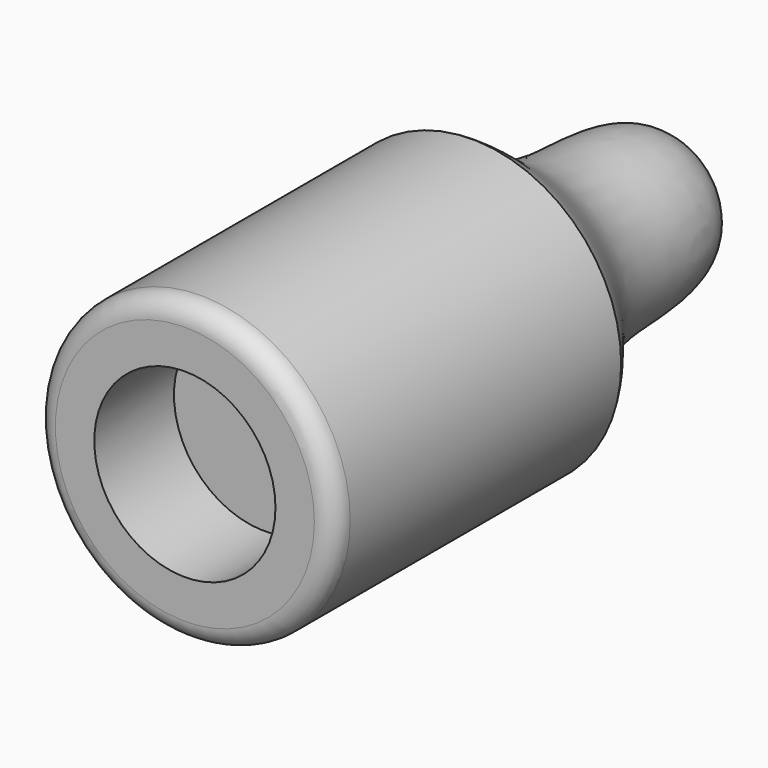
from build123d import *

# Parameters (mm, degrees)
F0_R     = 38.1
F1_DEPTH = 91.44
F2_R     = 23.1008347908
F3_DEPTH = 25.4
F4_R     = 5.08


with BuildPart() as f1:
    # F0 (on Front) → F1 (new body)
    with BuildSketch(Plane.XZ):
        Circle(F0_R)
    extrude(amount=F1_DEPTH)

    # F2 (on face) → F3 (cut)
    with BuildSketch(Plane.XZ.offset(91.44)):
        Circle(F2_R)
    extrude(amount=-F3_DEPTH, mode=Mode.SUBTRACT)

    # F4
    f4_edges = [f1.edges().sort_by_distance(p)[0] for p in [
        (-38.1, -91.44, 0),
    ]]
    fillet(f4_edges, radius=F4_R)

    # F5 (on Top) → F6 (revolve)
    with BuildSketch(Plane.XY):
        with BuildLine():
            Line((0, 68.6084377315), (0, 0))
            Line((0, 0), (38.1, 0))
            add(Edge.make_bspline(
                [(0, 68.6084377315), (6.2479440962, 66.531043979), (20.3802893777, 61.8529112655), (20.0334067384, 35.4150108531), (23.0129778355, 17.0896280583), (35.4184549534, 4.6880386636), (38.1, 0)],
                knots=[0, 0, 0, 0, 0.238836495, 0.5037885419, 0.7463651992, 1, 1, 1, 1], degree=3))
        make_face()
    revolve(axis=Axis((0, 34.3042188658, 0), (0, 1, 0)))


solid = f1.part
